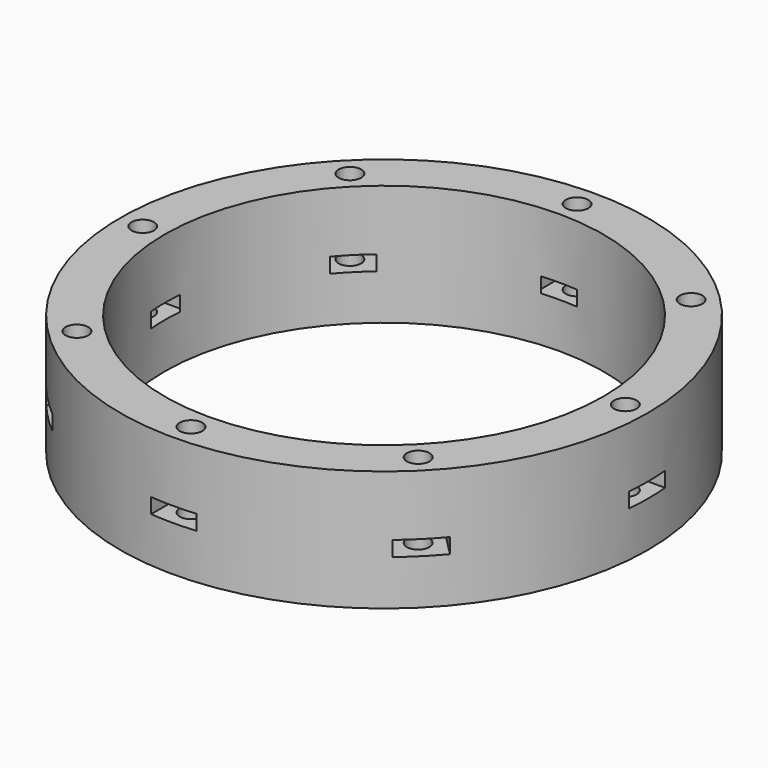
from build123d import *

# Parameters (mm, degrees)
BOX697_W                     = 6
BOX697_H                     = 6
BOX697_DEPTH                 = 2
BOX697_PLACEMENT_ANGLE       = 45
BOX703_W                     = 6
BOX703_H                     = 6
BOX703_DEPTH                 = 2
BOX703_PLACEMENT_ANGLE       = 45
BOX702_W                     = 6
BOX702_H                     = 6
BOX702_DEPTH                 = 2
BOX701_W                     = 6
BOX701_H                     = 6
BOX701_DEPTH                 = 2
BOX701_PLACEMENT_ANGLE       = 225
BOX700_W                     = 6
BOX700_H                     = 6
BOX700_DEPTH                 = 2
BOX699_W                     = 6
BOX699_H                     = 6
BOX699_DEPTH                 = 2
BOX699_PLACEMENT_ANGLE       = 135
BOX698_W                     = 6
BOX698_H                     = 6
BOX698_DEPTH                 = 2
BOX696_W                     = 6
BOX696_H                     = 6
BOX696_DEPTH                 = 2
CYLINDER1770_R               = 1.5
CYLINDER1770_DEPTH           = 30
CYLINDER1770_PLACEMENT_ANGLE = 45
CYLINDER1768_R               = 1.5
CYLINDER1768_DEPTH           = 30
CYLINDER1764_R               = 1.5
CYLINDER1764_DEPTH           = 30
CYLINDER1764_PLACEMENT_ANGLE = 135
CYLINDER1767_R               = 1.5
CYLINDER1767_DEPTH           = 30
CYLINDER1765_R               = 1.5
CYLINDER1765_DEPTH           = 30
CYLINDER1765_PLACEMENT_ANGLE = 225
CYLINDER1769_R               = 1.5
CYLINDER1769_DEPTH           = 30
CYLINDER1766_R               = 1.5
CYLINDER1766_DEPTH           = 30
CYLINDER1766_PLACEMENT_ANGLE = 45
CYLINDER1771_R               = 1.5
CYLINDER1771_DEPTH           = 30
TUBE086_R                    = 35
TUBE086_R_2                  = 29.1
TUBE086_DEPTH                = 16


with BuildPart() as krychle697:
    # Box697 → Box697 (new body)
    with BuildSketch(Plane.XY):
        with Locations((3, 3)):
            Rectangle(BOX697_W, BOX697_H)
    extrude(amount=BOX697_DEPTH)


with BuildPart() as krychle697_1:
    # Box697 placement: moved
    add(krychle697.part.moved(Location((22.627417, -26.870058, 6))).rotate(Axis((22.627417, -26.870058, 6), (0, 0, 1)), BOX697_PLACEMENT_ANGLE))


with BuildPart() as krychle703:
    # Box703 → Box703 (new body)
    with BuildSketch(Plane.XY):
        with Locations((3, 3)):
            Rectangle(BOX703_W, BOX703_H)
    extrude(amount=BOX703_DEPTH)


with BuildPart() as krychle703_1:
    # Box703 placement: moved
    add(krychle703.part.moved(Location((-26.870058, -22.627417, 6))).rotate(Axis((-26.870058, -22.627417, 6), (0, 0, -1)), BOX703_PLACEMENT_ANGLE))


with BuildPart() as krychle702:
    # Box702 → Box702 (new body)
    with BuildSketch(Plane(origin=(-35, 3, 6), x_dir=(0, -1, 0), z_dir=(0, 0, 1))):
        with Locations((3, 3)):
            Rectangle(BOX702_W, BOX702_H)
    extrude(amount=BOX702_DEPTH)


with BuildPart() as krychle701:
    # Box701 → Box701 (new body)
    with BuildSketch(Plane.XY):
        with Locations((3, 3)):
            Rectangle(BOX701_W, BOX701_H)
    extrude(amount=BOX701_DEPTH)


with BuildPart() as krychle701_1:
    # Box701 placement: moved
    add(krychle701.part.moved(Location((-22.627417, 26.870058, 6))).rotate(Axis((-22.627417, 26.870058, 6), (0, 0, 1)), BOX701_PLACEMENT_ANGLE))


with BuildPart() as krychle700:
    # Box700 → Box700 (new body)
    with BuildSketch(Plane(origin=(3, 35, 6), x_dir=(-1, 0, 0), z_dir=(0, 0, 1))):
        with Locations((3, 3)):
            Rectangle(BOX700_W, BOX700_H)
    extrude(amount=BOX700_DEPTH)


with BuildPart() as krychle699:
    # Box699 → Box699 (new body)
    with BuildSketch(Plane.XY):
        with Locations((3, 3)):
            Rectangle(BOX699_W, BOX699_H)
    extrude(amount=BOX699_DEPTH)


with BuildPart() as krychle699_1:
    # Box699 placement: moved
    add(krychle699.part.moved(Location((26.870058, 22.627417, 6))).rotate(Axis((26.870058, 22.627417, 6), (0, 0, 1)), BOX699_PLACEMENT_ANGLE))


with BuildPart() as krychle698:
    # Box698 → Box698 (new body)
    with BuildSketch(Plane(origin=(35, -3, 6), x_dir=(0, 1, 0), z_dir=(0, 0, 1))):
        with Locations((3, 3)):
            Rectangle(BOX698_W, BOX698_H)
    extrude(amount=BOX698_DEPTH)


with BuildPart() as compound878:
    # Box696 → Box696 (new body)
    with BuildSketch(Plane(origin=(-3, -35, 6), x_dir=(1, 0, 0), z_dir=(0, 0, 1))):
        with Locations((3, 3)):
            Rectangle(BOX696_W, BOX696_H)
    extrude(amount=BOX696_DEPTH)

    # Compound878: union Krychle697, Krychle703, Krychle702, Krychle701, Krychle700, Krychle699, Krychle698
    add(krychle697_1.part)
    add(krychle703_1.part)
    add(krychle702.part)
    add(krychle701_1.part)
    add(krychle700.part)
    add(krychle699_1.part)
    add(krychle698.part)


with BuildPart() as obj1:
    # Cylinder1770 → Cylinder1770 (new body)
    with BuildSketch(Plane.XY):
        Circle(CYLINDER1770_R)
    extrude(amount=CYLINDER1770_DEPTH)


with BuildPart() as obj1_1:
    # Cylinder1770 placement: moved
    add(obj1.part.moved(Location((22.627417, -22.627417, 0))).rotate(Axis((22.627417, -22.627417, 0), (0, 0, 1)), CYLINDER1770_PLACEMENT_ANGLE))


with BuildPart() as obj2:
    # Cylinder1768 → Cylinder1768 (new body)
    with BuildSketch(Plane(origin=(32, 0, 0), x_dir=(0, 1, 0), z_dir=(0, 0, 1))):
        Circle(CYLINDER1768_R)
    extrude(amount=CYLINDER1768_DEPTH)


with BuildPart() as obj3:
    # Cylinder1764 → Cylinder1764 (new body)
    with BuildSketch(Plane.XY):
        Circle(CYLINDER1764_R)
    extrude(amount=CYLINDER1764_DEPTH)


with BuildPart() as obj3_1:
    # Cylinder1764 placement: moved
    add(obj3.part.moved(Location((22.627417, 22.627417, 0))).rotate(Axis((22.627417, 22.627417, 0), (0, 0, 1)), CYLINDER1764_PLACEMENT_ANGLE))


with BuildPart() as obj4:
    # Cylinder1767 → Cylinder1767 (new body)
    with BuildSketch(Plane(origin=(0, 32, 0), x_dir=(-1, 0, 0), z_dir=(0, 0, 1))):
        Circle(CYLINDER1767_R)
    extrude(amount=CYLINDER1767_DEPTH)


with BuildPart() as obj5:
    # Cylinder1765 → Cylinder1765 (new body)
    with BuildSketch(Plane.XY):
        Circle(CYLINDER1765_R)
    extrude(amount=CYLINDER1765_DEPTH)


with BuildPart() as obj5_1:
    # Cylinder1765 placement: moved
    add(obj5.part.moved(Location((-22.627417, 22.627417, 0))).rotate(Axis((-22.627417, 22.627417, 0), (0, 0, 1)), CYLINDER1765_PLACEMENT_ANGLE))


with BuildPart() as obj6:
    # Cylinder1769 → Cylinder1769 (new body)
    with BuildSketch(Plane(origin=(-32, 0, 0), x_dir=(0, -1, 0), z_dir=(0, 0, 1))):
        Circle(CYLINDER1769_R)
    extrude(amount=CYLINDER1769_DEPTH)


with BuildPart() as obj7:
    # Cylinder1766 → Cylinder1766 (new body)
    with BuildSketch(Plane.XY):
        Circle(CYLINDER1766_R)
    extrude(amount=CYLINDER1766_DEPTH)


with BuildPart() as obj7_1:
    # Cylinder1766 placement: moved
    add(obj7.part.moved(Location((-22.627417, -22.627417, 0))).rotate(Axis((-22.627417, -22.627417, 0), (0, 0, -1)), CYLINDER1766_PLACEMENT_ANGLE))


with BuildPart() as compound881:
    # Cylinder1771 → Cylinder1771 (new body)
    with BuildSketch(Plane(origin=(0, -32, 0), x_dir=(1, 0, 0), z_dir=(0, 0, 1))):
        Circle(CYLINDER1771_R)
    extrude(amount=CYLINDER1771_DEPTH)

    # Compound881: union obj1, obj2, obj3, obj4, obj5, obj6, obj7
    add(obj1_1.part)
    add(obj2.part)
    add(obj3_1.part)
    add(obj4.part)
    add(obj5_1.part)
    add(obj6.part)
    add(obj7_1.part)


with BuildPart() as cut512:
    # Tube086 → Tube086 (new body)
    with BuildSketch(Plane.XY):
        Circle(TUBE086_R)
        Circle(TUBE086_R_2, mode=Mode.SUBTRACT)
    extrude(amount=TUBE086_DEPTH)

    # Cut511: cut Compound881
    add(compound881.part, mode=Mode.SUBTRACT)

    # Cut512: cut Compound878
    add(compound878.part, mode=Mode.SUBTRACT)


solid = cut512.part
